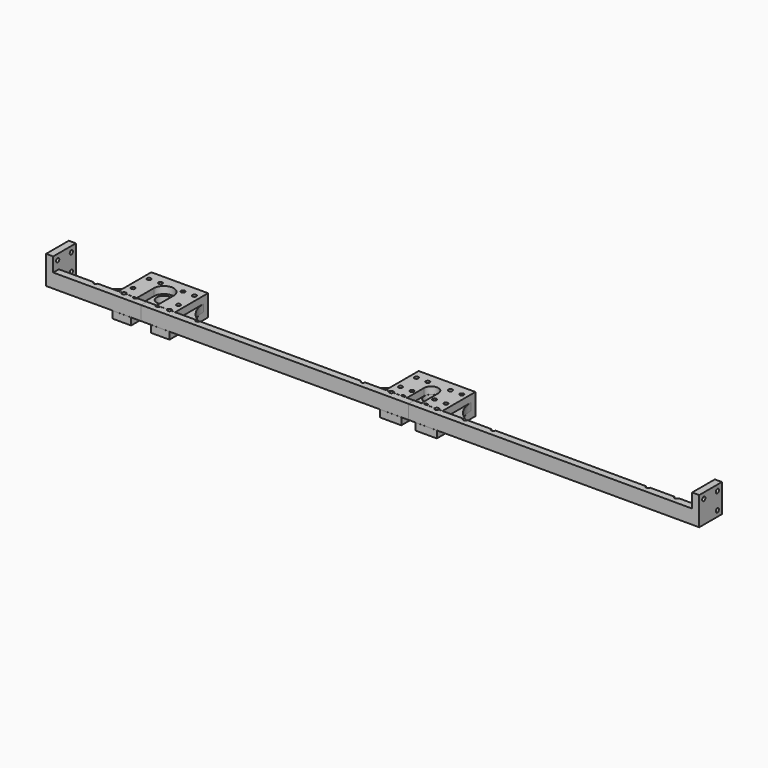
from build123d import *

# Parameters (mm, degrees)
PAD_DEPTH               = 5
SKETCH001_W             = 205
SKETCH001_H             = 5
PAD001_DEPTH            = 5
PAD002_DEPTH            = 205
SKETCH004_R             = 1.4
POCKET_DEPTH            = 0.001
POCKET_DEPTH_BACK       = -10.001
SKETCH005_W             = 20
SKETCH005_H             = 20
SKETCH005_R             = 1.4
PAD003_DEPTH            = 5
PAD004_DEPTH            = 5
SKETCH007_W             = 188.5
SKETCH007_H             = 5
PAD005_DEPTH            = 5
PAD006_DEPTH            = 188.5
SKETCH010_R             = 1.4
SKETCH010_R_2           = 7
SKETCH010_R_3           = 5
POCKET001_DEPTH         = 0.001
POCKET001_DEPTH_BACK    = -10.001
PAD007_DEPTH            = 5
PAD009_DEPTH            = 67
SKETCH015_R             = 1.4
POCKET002_DEPTH         = 5.001
POCKET002_DEPTH_BACK    = -5.001
SKETCH016_W             = 20
SKETCH016_H             = 20
SKETCH016_R             = 1.4
PAD010_DEPTH            = 5
BODY002_PLACEMENT_ANGLE = 180
PAD011_DEPTH            = 40
SKETCH018_R             = 1.4
POCKET003_DEPTH         = 7.526
POCKET003_DEPTH_BACK    = -7.526
POCKET004_DEPTH         = 40.001
BODY003_PLACEMENT_ANGLE = 90
PAD012_DEPTH            = 40
SKETCH021_R             = 1.4
POCKET005_DEPTH         = 7.526
POCKET005_DEPTH_BACK    = -7.526
POCKET006_DEPTH         = 40.001
BODY004_PLACEMENT_ANGLE = 90
PAD013_DEPTH            = 5
PAD014_DEPTH            = 67
SKETCH025_R             = 1.4
POCKET007_DEPTH         = 5.001
POCKET007_DEPTH_BACK    = -5.001
SKETCH026_W             = 20
SKETCH026_H             = 20
SKETCH026_R             = 1.4
PAD015_DEPTH            = 5
BODY005_PLACEMENT_ANGLE = 180
PAD016_DEPTH            = 5
SKETCH028_W             = 188.5
SKETCH028_H             = 5
PAD017_DEPTH            = 5
PAD018_DEPTH            = 188.5
SKETCH031_R             = 1.4
SKETCH031_R_2           = 5
SKETCH031_R_3           = 7
POCKET008_DEPTH         = 0.001
POCKET008_DEPTH_BACK    = -10.001
PAD019_DEPTH            = 5
SKETCH033_W             = 205
SKETCH033_H             = 5
PAD020_DEPTH            = 5
PAD021_DEPTH            = 205
SKETCH036_R             = 1.4
POCKET009_DEPTH         = 0.001
POCKET009_DEPTH_BACK    = -10.001
SKETCH037_W             = 20
SKETCH037_H             = 20
SKETCH037_R             = 1.4
PAD022_DEPTH            = 5


with BuildPart() as body:
    # Sketch → Pad (new body)
    with BuildSketch(Plane.XY):
        with BuildLine():
            Line((40, 10), (205, 10))
            Line((205, 10), (205, 0))
            Line((205, 0), (0, 0))
            Line((0, 0), (0, 15))
            ThreePointArc((0, 15), (5, 20), (0, 25))
            Line((0, 25), (0, 30))
            Line((20, 30), (0, 30))
            ThreePointArc((20, 30), (25.857864, 15.857864), (40, 10))
        make_face()
    extrude(amount=PAD_DEPTH)

    # Sketch001 → Pad001 (join)
    with BuildSketch(Plane.XY.offset(5)):
        with Locations((102.5, 2.5)):
            Rectangle(SKETCH001_W, SKETCH001_H)
    extrude(amount=PAD001_DEPTH)

    # Sketch002 → Pad002 (join)
    with BuildSketch(Plane.YZ):
        with BuildLine():
            Line((5, 5), (10, 5))
            ThreePointArc((5, 10), (6.464466, 6.464466), (10, 5))
            Line((5, 10), (5, 5))
        make_face()
    extrude(amount=PAD002_DEPTH)

    # Sketch004 → Pocket (cut, two sides)
    with BuildSketch(Plane.XY) as pocket_sk:
        with Locations((8, 27)):
            Circle(SKETCH004_R)
        with Locations((8, 5)):
            Circle(SKETCH004_R)
        with Locations((8, 13)):
            Circle(SKETCH004_R)
        with Locations((16, 27)):
            Circle(SKETCH004_R)
        with Locations((16, 13)):
            Circle(SKETCH004_R)
        with Locations((16, 5)):
            Circle(SKETCH004_R)
        with Locations((36, 5)):
            Circle(SKETCH004_R)
        with Locations((56, 5)):
            Circle(SKETCH004_R)
        with Locations((185, 5)):
            Circle(SKETCH004_R)
        with Locations((165, 5)):
            Circle(SKETCH004_R)
    extrude(amount=-POCKET_DEPTH, mode=Mode.SUBTRACT)
    extrude(pocket_sk.sketch, amount=-POCKET_DEPTH_BACK, mode=Mode.SUBTRACT)

    # Sketch005 → Pad003 (join)
    with BuildSketch(Plane.YZ.offset(205)):
        with Locations((10, 10)):
            Rectangle(SKETCH005_W, SKETCH005_H)
        with Locations((4, 16)):
            Circle(SKETCH005_R, mode=Mode.SUBTRACT)
        with Locations((16, 16)):
            Circle(SKETCH005_R, mode=Mode.SUBTRACT)
        with Locations((16, 4)):
            Circle(SKETCH005_R, mode=Mode.SUBTRACT)
    extrude(amount=-PAD003_DEPTH)


with BuildPart() as body001mid:
    # Sketch006 → Pad004 (new body)
    with BuildSketch(Plane.XY):
        with BuildLine():
            Line((40, 10), (148.5, 10))
            ThreePointArc((148.5, 10), (162.642136, 15.857864), (168.5, 30))
            Line((188.5, 30), (168.5, 30))
            Line((188.5, 0), (188.5, 30))
            Line((188.5, 0), (0, 0))
            Line((0, 0), (0, 15))
            ThreePointArc((0, 15), (5, 20), (0, 25))
            Line((0, 25), (0, 30))
            Line((20, 30), (0, 30))
            ThreePointArc((20, 30), (25.857864, 15.857864), (40, 10))
        make_face()
    extrude(amount=PAD004_DEPTH)

    # Sketch007 → Pad005 (join)
    with BuildSketch(Plane.XY.offset(5)):
        with Locations((94.25, 2.5)):
            Rectangle(SKETCH007_W, SKETCH007_H)
    extrude(amount=PAD005_DEPTH)

    # Sketch008 → Pad006 (join)
    with BuildSketch(Plane.YZ):
        with BuildLine():
            Line((5, 5), (10, 5))
            ThreePointArc((5, 10), (6.464466, 6.464466), (10, 5))
            Line((5, 10), (5, 5))
        make_face()
    extrude(amount=PAD006_DEPTH)

    # Sketch010 → Pocket001 (cut, two sides)
    with BuildSketch(Plane.XY) as pocket001_sk:
        with Locations((8, 5)):
            Circle(SKETCH010_R)
        with Locations((8, 13)):
            Circle(SKETCH010_R)
        with Locations((0, 20)):
            Circle(SKETCH010_R_2)
        with Locations((188.5, 20)):
            Circle(SKETCH010_R_3)
        with Locations((172.5, 27)):
            Circle(SKETCH010_R)
        with Locations((8, 27)):
            Circle(SKETCH010_R)
        with Locations((16, 27)):
            Circle(SKETCH010_R)
        with Locations((180.5, 5)):
            Circle(SKETCH010_R)
        with Locations((180.5, 13)):
            Circle(SKETCH010_R)
        with Locations((16, 13)):
            Circle(SKETCH010_R)
        with Locations((180.5, 27)):
            Circle(SKETCH010_R)
        with Locations((172.5, 13)):
            Circle(SKETCH010_R)
        with Locations((16, 5)):
            Circle(SKETCH010_R)
        with Locations((36, 5)):
            Circle(SKETCH010_R)
        with Locations((172.5, 5)):
            Circle(SKETCH010_R)
        with Locations((152.5, 5)):
            Circle(SKETCH010_R)
    extrude(amount=-POCKET001_DEPTH, mode=Mode.SUBTRACT)
    extrude(pocket001_sk.sketch, amount=-POCKET001_DEPTH_BACK, mode=Mode.SUBTRACT)


with BuildPart() as body001mid_1:
    # Body001 placement: moved
    add(body001mid.part.moved(Location((-188.5, 0, 0))))


with BuildPart() as body002topbig:
    # Sketch011 → Pad007 (new body)
    with BuildSketch(Plane.XY):
        with BuildLine():
            Line((40, 10), (67, 10))
            Line((67, 10), (67, 0))
            Line((67, 0), (0, 0))
            Line((0, 0), (0, 13))
            ThreePointArc((0, 13), (7, 20), (0, 27))
            Line((0, 27), (0, 30))
            Line((20, 30), (0, 30))
            ThreePointArc((20, 30), (25.857864, 15.857864), (40, 10))
        make_face()
    extrude(amount=PAD007_DEPTH)

    # Sketch013 → Pad009 (join)
    with BuildSketch(Plane.YZ):
        with BuildLine():
            Line((10, 0), (0, 0))
            Line((0, 0), (0, -5))
            Line((0, -5), (5, -5))
            ThreePointArc((10, 0), (6.464466, -1.464466), (5, -5))
        make_face()
    extrude(amount=PAD009_DEPTH)

    # Sketch015 → Pocket002 (cut, two sides)
    with BuildSketch(Plane.XY) as pocket002_sk:
        with Locations((8, 27)):
            Circle(SKETCH015_R)
        with Locations((8, 13)):
            Circle(SKETCH015_R)
        with Locations((8, 5)):
            Circle(SKETCH015_R)
        with Locations((16, 27)):
            Circle(SKETCH015_R)
        with Locations((16, 13)):
            Circle(SKETCH015_R)
        with Locations((16, 5)):
            Circle(SKETCH015_R)
        with Locations((36, 5)):
            Circle(SKETCH015_R)
    extrude(amount=-POCKET002_DEPTH, mode=Mode.SUBTRACT)
    extrude(pocket002_sk.sketch, amount=-POCKET002_DEPTH_BACK, mode=Mode.SUBTRACT)

    # Sketch016 → Pad010 (join)
    with BuildSketch(Plane.YZ.offset(67)):
        with Locations((10, -5)):
            Rectangle(SKETCH016_W, SKETCH016_H)
        with Locations((16, 1)):
            Circle(SKETCH016_R, mode=Mode.SUBTRACT)
        with Locations((16, -11)):
            Circle(SKETCH016_R, mode=Mode.SUBTRACT)
        with Locations((4, -11)):
            Circle(SKETCH016_R, mode=Mode.SUBTRACT)
    extrude(amount=-PAD010_DEPTH)


with BuildPart() as body002topbig_1:
    # Body002 placement: moved
    add(body002topbig.part.moved(Location((-188.5, 0, 5))).rotate(Axis((-188.5, 0, 5), (0, 1, 0)), BODY002_PLACEMENT_ANGLE))


with BuildPart() as body003rodconnectorbig:
    # Sketch017 → Pad011 (new body)
    with BuildSketch(Plane.YZ):
        Polygon((-7.525, 0), (-7.525, 34), (-2.525, 34), (-2.525, 4), (2.525, 4), (2.525, 34), (7.525, 34), (7.525, 0), align=None)
    extrude(amount=PAD011_DEPTH)

    # Sketch018 → Pocket003 (cut, two sides)
    with BuildSketch(Plane(origin=(20, 0, 0), x_dir=(1, 0, 0), z_dir=(0, -1, 0))) as pocket003_sk:
        with Locations((-16, 21)):
            Circle(SKETCH018_R)
        with Locations((-16, 7)):
            Circle(SKETCH018_R)
        with Locations((-8, 7)):
            Circle(SKETCH018_R)
        with Locations((-16, 29)):
            Circle(SKETCH018_R)
        with Locations((16, 29)):
            Circle(SKETCH018_R)
        with Locations((16, 21)):
            Circle(SKETCH018_R)
        with Locations((16, 7)):
            Circle(SKETCH018_R)
        with Locations((8, 7)):
            Circle(SKETCH018_R)
        with BuildLine():
            ThreePointArc((-7.05, 14), (0, 6.95), (7.05, 14))
            Line((7.05, 34), (7.05, 14))
            Line((-7.05, 34), (7.05, 34))
            Line((-7.05, 14), (-7.05, 34))
        make_face()
    extrude(amount=-POCKET003_DEPTH, mode=Mode.SUBTRACT)
    extrude(pocket003_sk.sketch, amount=-POCKET003_DEPTH_BACK, mode=Mode.SUBTRACT)

    # Sketch019 → Pocket004 (cut, through all)
    with BuildSketch(Plane.YZ):
        with BuildLine():
            Line((2.5, 34), (7.55, 34))
            Line((7.55, 34), (7.55, 28.95))
            ThreePointArc((7.55, 28.95), (3.982188, 27.503418), (2.5, 23.95025))
            Line((2.5, 34), (2.5, 23.95025))
        make_face()
    extrude(amount=POCKET004_DEPTH, mode=Mode.SUBTRACT)


with BuildPart() as body003rodconnectorbig_1:
    # Body003 placement: moved
    add(body003rodconnectorbig.part.moved(Location((-208.5, 34, 2.5))).rotate(Axis((-208.5, 34, 2.5), (1, 0, 0)), BODY003_PLACEMENT_ANGLE))


with BuildPart() as body003rodconnector001small:
    # Sketch020 → Pad012 (new body)
    with BuildSketch(Plane.YZ):
        Polygon((-7.525, 0), (-7.525, 34), (-2.525, 34), (-2.525, 4), (2.525, 4), (2.525, 34), (7.525, 34), (7.525, 0), align=None)
    extrude(amount=PAD012_DEPTH)

    # Sketch021 → Pocket005 (cut, two sides)
    with BuildSketch(Plane(origin=(20, 0, 0), x_dir=(1, 0, 0), z_dir=(0, -1, 0))) as pocket005_sk:
        with Locations((-16, 21)):
            Circle(SKETCH021_R)
        with Locations((-16, 7)):
            Circle(SKETCH021_R)
        with Locations((-8, 7)):
            Circle(SKETCH021_R)
        with Locations((-16, 29)):
            Circle(SKETCH021_R)
        with Locations((16, 29)):
            Circle(SKETCH021_R)
        with Locations((16, 21)):
            Circle(SKETCH021_R)
        with Locations((16, 7)):
            Circle(SKETCH021_R)
        with Locations((8, 7)):
            Circle(SKETCH021_R)
        with Locations((-8, 21)):
            Circle(SKETCH021_R)
        with Locations((-8, 29)):
            Circle(SKETCH021_R)
        with Locations((8, 29)):
            Circle(SKETCH021_R)
        with Locations((8, 21)):
            Circle(SKETCH021_R)
        with BuildLine():
            ThreePointArc((-5.05, 14), (0, 8.95), (5.05, 14))
            Line((5.05, 34), (5.05, 14))
            Line((-5.05, 34), (5.05, 34))
            Line((-5.05, 14), (-5.05, 34))
        make_face()
    extrude(amount=-POCKET005_DEPTH, mode=Mode.SUBTRACT)
    extrude(pocket005_sk.sketch, amount=-POCKET005_DEPTH_BACK, mode=Mode.SUBTRACT)

    # Sketch022 → Pocket006 (cut, through all)
    with BuildSketch(Plane.YZ):
        with BuildLine():
            Line((2.5, 34), (7.55, 34))
            Line((7.55, 34), (7.55, 28.95))
            ThreePointArc((7.55, 28.95), (3.982188, 27.503418), (2.5, 23.95025))
            Line((2.5, 34), (2.5, 23.95025))
        make_face()
    extrude(amount=POCKET006_DEPTH, mode=Mode.SUBTRACT)


with BuildPart() as body003rodconnector001small_1:
    # Body004 placement: moved
    add(body003rodconnector001small.part.moved(Location((-20, 34, 2.5))).rotate(Axis((-20, 34, 2.5), (1, 0, 0)), BODY004_PLACEMENT_ANGLE))


with BuildPart() as body002top001small:
    # Sketch023 → Pad013 (new body)
    with BuildSketch(Plane.XY):
        with BuildLine():
            Line((40, 10), (67, 10))
            Line((67, 10), (67, 0))
            Line((67, 0), (0, 0))
            Line((0, 0), (0, 15))
            ThreePointArc((0, 15), (5, 20), (0, 25))
            Line((0, 25), (0, 30))
            Line((20, 30), (0, 30))
            ThreePointArc((20, 30), (25.857864, 15.857864), (40, 10))
        make_face()
    extrude(amount=PAD013_DEPTH)

    # Sketch024 → Pad014 (join)
    with BuildSketch(Plane.YZ):
        with BuildLine():
            Line((10, 0), (0, 0))
            Line((0, 0), (0, -5))
            Line((0, -5), (5, -5))
            ThreePointArc((10, 0), (6.464466, -1.464466), (5, -5))
        make_face()
    extrude(amount=PAD014_DEPTH)

    # Sketch025 → Pocket007 (cut, two sides)
    with BuildSketch(Plane.XY) as pocket007_sk:
        with Locations((8, 27)):
            Circle(SKETCH025_R)
        with Locations((8, 13)):
            Circle(SKETCH025_R)
        with Locations((8, 5)):
            Circle(SKETCH025_R)
        with Locations((16, 27)):
            Circle(SKETCH025_R)
        with Locations((16, 13)):
            Circle(SKETCH025_R)
        with Locations((16, 5)):
            Circle(SKETCH025_R)
        with Locations((36, 5)):
            Circle(SKETCH025_R)
    extrude(amount=-POCKET007_DEPTH, mode=Mode.SUBTRACT)
    extrude(pocket007_sk.sketch, amount=-POCKET007_DEPTH_BACK, mode=Mode.SUBTRACT)

    # Sketch026 → Pad015 (join)
    with BuildSketch(Plane.YZ.offset(67)):
        with Locations((10, -5)):
            Rectangle(SKETCH026_W, SKETCH026_H)
        with Locations((16, 1)):
            Circle(SKETCH026_R, mode=Mode.SUBTRACT)
        with Locations((16, -11)):
            Circle(SKETCH026_R, mode=Mode.SUBTRACT)
        with Locations((4, -11)):
            Circle(SKETCH026_R, mode=Mode.SUBTRACT)
    extrude(amount=-PAD015_DEPTH)


with BuildPart() as body002top001small_1:
    # Body005 placement: moved
    add(body002top001small.part.moved(Location((-188.5, 0, 5))).rotate(Axis((-188.5, 0, 5), (0, 1, 0)), BODY005_PLACEMENT_ANGLE))


with BuildPart() as body001mid001small:
    # Sketch027 → Pad016 (new body)
    with BuildSketch(Plane.XY):
        with BuildLine():
            Line((40, 10), (148.5, 10))
            ThreePointArc((148.5, 10), (162.642136, 15.857864), (168.5, 30))
            Line((188.5, 30), (168.5, 30))
            Line((188.5, 0), (188.5, 30))
            Line((188.5, 0), (0, 0))
            Line((0, 0), (0, 15))
            ThreePointArc((0, 15), (5, 20), (0, 25))
            Line((0, 25), (0, 30))
            Line((20, 30), (0, 30))
            ThreePointArc((20, 30), (25.857864, 15.857864), (40, 10))
        make_face()
    extrude(amount=PAD016_DEPTH)

    # Sketch028 → Pad017 (join)
    with BuildSketch(Plane.XY.offset(5)):
        with Locations((94.25, 2.5)):
            Rectangle(SKETCH028_W, SKETCH028_H)
    extrude(amount=PAD017_DEPTH)

    # Sketch029 → Pad018 (join)
    with BuildSketch(Plane.YZ):
        with BuildLine():
            Line((5, 5), (10, 5))
            ThreePointArc((5, 10), (6.464466, 6.464466), (10, 5))
            Line((5, 10), (5, 5))
        make_face()
    extrude(amount=PAD018_DEPTH)

    # Sketch031 → Pocket008 (cut, two sides)
    with BuildSketch(Plane.XY) as pocket008_sk:
        with Locations((8, 5)):
            Circle(SKETCH031_R)
        with Locations((8, 13)):
            Circle(SKETCH031_R)
        with Locations((0, 20)):
            Circle(SKETCH031_R_2)
        with Locations((188.5, 20)):
            Circle(SKETCH031_R_3)
        with Locations((172.5, 27)):
            Circle(SKETCH031_R)
        with Locations((8, 27)):
            Circle(SKETCH031_R)
        with Locations((16, 27)):
            Circle(SKETCH031_R)
        with Locations((16, 13)):
            Circle(SKETCH031_R)
        with Locations((180.5, 27)):
            Circle(SKETCH031_R)
        with Locations((172.5, 13)):
            Circle(SKETCH031_R)
        with Locations((16, 5)):
            Circle(SKETCH031_R)
        with Locations((36, 5)):
            Circle(SKETCH031_R)
        with Locations((172.5, 5)):
            Circle(SKETCH031_R)
        with Locations((152.5, 5)):
            Circle(SKETCH031_R)
    extrude(amount=-POCKET008_DEPTH, mode=Mode.SUBTRACT)
    extrude(pocket008_sk.sketch, amount=-POCKET008_DEPTH_BACK, mode=Mode.SUBTRACT)


with BuildPart() as body001mid001small_1:
    # Body006 placement: moved
    add(body001mid001small.part.moved(Location((-188.5, 0, 0))))


with BuildPart() as body007bottomsmall:
    # Sketch032 → Pad019 (new body)
    with BuildSketch(Plane.XY):
        with BuildLine():
            Line((40, 10), (205, 10))
            Line((205, 10), (205, 0))
            Line((205, 0), (0, 0))
            Line((0, 0), (0, 13))
            ThreePointArc((0, 13), (7, 20), (0, 27))
            Line((0, 27), (0, 30))
            Line((20, 30), (0, 30))
            ThreePointArc((20, 30), (25.857864, 15.857864), (40, 10))
        make_face()
    extrude(amount=PAD019_DEPTH)

    # Sketch033 → Pad020 (join)
    with BuildSketch(Plane.XY.offset(5)):
        with Locations((102.5, 2.5)):
            Rectangle(SKETCH033_W, SKETCH033_H)
    extrude(amount=PAD020_DEPTH)

    # Sketch034 → Pad021 (join)
    with BuildSketch(Plane.YZ):
        with BuildLine():
            Line((5, 5), (10, 5))
            ThreePointArc((5, 10), (6.464466, 6.464466), (10, 5))
            Line((5, 10), (5, 5))
        make_face()
    extrude(amount=PAD021_DEPTH)

    # Sketch036 → Pocket009 (cut, two sides)
    with BuildSketch(Plane.XY) as pocket009_sk:
        with Locations((8, 27)):
            Circle(SKETCH036_R)
        with Locations((16, 27)):
            Circle(SKETCH036_R)
        with Locations((16, 13)):
            Circle(SKETCH036_R)
        with Locations((16, 5)):
            Circle(SKETCH036_R)
        with Locations((36, 5)):
            Circle(SKETCH036_R)
        with Locations((56, 5)):
            Circle(SKETCH036_R)
        with Locations((185, 5)):
            Circle(SKETCH036_R)
        with Locations((165, 5)):
            Circle(SKETCH036_R)
    extrude(amount=-POCKET009_DEPTH, mode=Mode.SUBTRACT)
    extrude(pocket009_sk.sketch, amount=-POCKET009_DEPTH_BACK, mode=Mode.SUBTRACT)

    # Sketch037 → Pad022 (join)
    with BuildSketch(Plane.YZ.offset(205)):
        with Locations((10, 10)):
            Rectangle(SKETCH037_W, SKETCH037_H)
        with Locations((4, 16)):
            Circle(SKETCH037_R, mode=Mode.SUBTRACT)
        with Locations((16, 16)):
            Circle(SKETCH037_R, mode=Mode.SUBTRACT)
        with Locations((16, 4)):
            Circle(SKETCH037_R, mode=Mode.SUBTRACT)
    extrude(amount=-PAD022_DEPTH)


solid = Compound([body.part, body001mid_1.part, body002topbig_1.part, body003rodconnectorbig_1.part, body003rodconnector001small_1.part, body002top001small_1.part, body001mid001small_1.part, body007bottomsmall.part])
